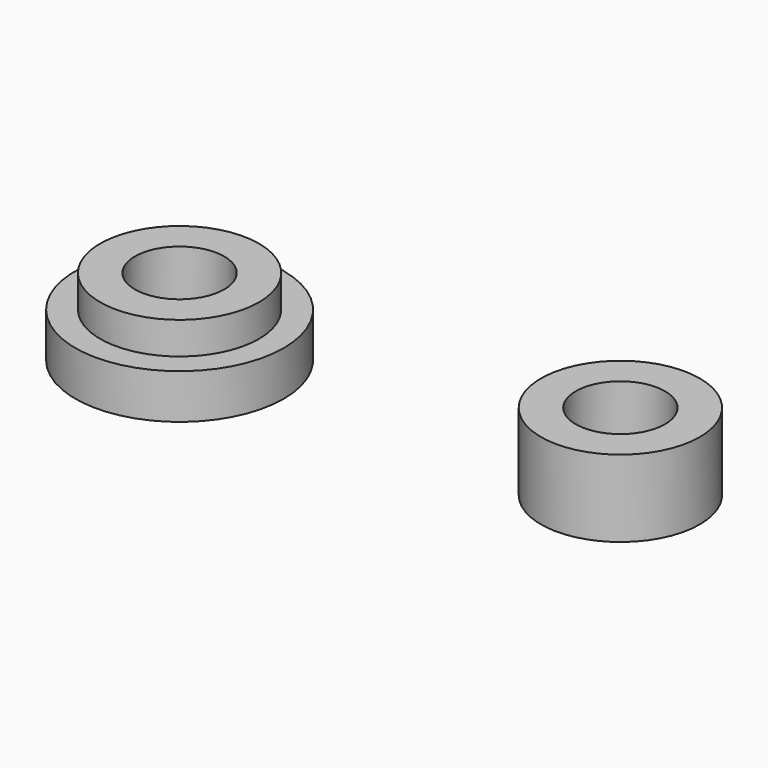
from build123d import *

# Parameters (mm, degrees)
F0_R     = 8
F0_R_2   = 4.5
F1_DEPTH = 7.75
F2_DEPTH = 3
F0_R_3   = 10.5
F3_DEPTH = 4.5


with BuildPart() as f1:
    # F0 (on Top) → F1 (new body)
    with BuildSketch(Plane.XY):
        Circle(F0_R)
        Circle(F0_R_2, mode=Mode.SUBTRACT)
        with Locations((-41.417908, -3.73194)):
            Circle(F0_R)
        with Locations((-41.417908, -3.73194)):
            Circle(F0_R_2, mode=Mode.SUBTRACT)
    extrude(amount=F1_DEPTH)

    # F0 (on Top) → F2 (join)
    with BuildSketch(Plane.XY):
        Circle(F0_R_2)
        with Locations((-41.417908, -3.73194)):
            Circle(F0_R_2)
    extrude(amount=F2_DEPTH)

    # F0 (on Top) → F3 (join)
    with BuildSketch(Plane.XY):
        with Locations((-41.417908, -3.73194)):
            Circle(F0_R_3)
        with Locations((-41.417908, -3.73194)):
            Circle(F0_R, mode=Mode.SUBTRACT)
    extrude(amount=F3_DEPTH)


solid = f1.part
